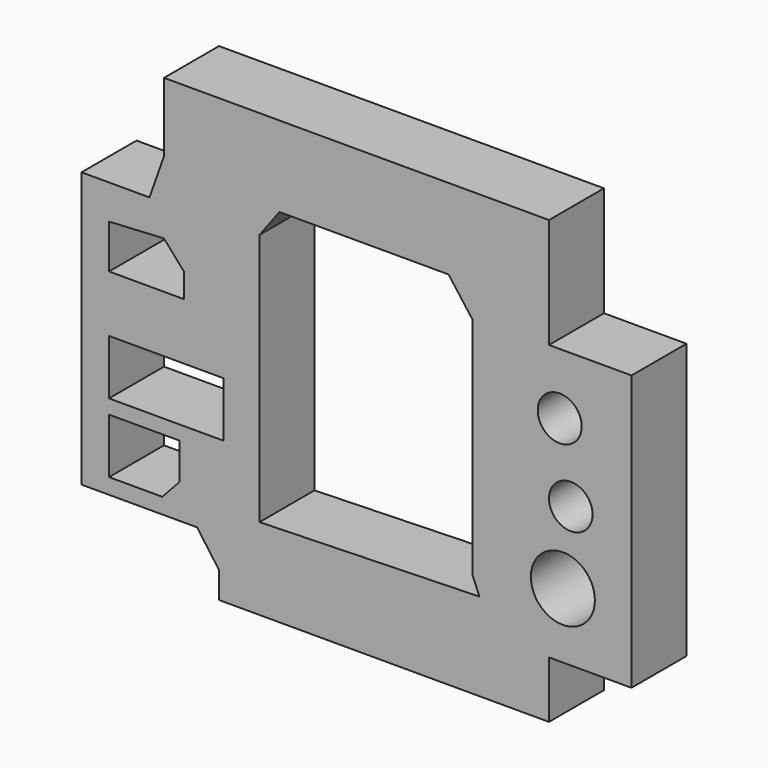
from build123d import *

# Parameters (mm, degrees)
F0_W     = 41.662812
F0_H     = 20
F0_R     = 11.641019
F0_R_2   = 7.924866
F0_R_3   = 7.996653
F1_DEPTH = 25
F2_DEPTH = 25


with BuildPart() as f1:
    # F0 (on Front) → F1 (new body)
    with BuildSketch(Plane.XZ):
        Polygon((-73.644338, 49.131665), (-98.355876, 49.131665), (-98.355876, -50.868335), (-56.336644, -50.868335), (-48.355876, -61.926026), (-48.355876, -71.541415), (71.644124, -71.541415), (71.644124, -50.868335), (101.644124, -50.868335), (101.644124, 49.131665), (71.644124, 49.131665), (71.644124, 89.131665), (-68.355876, 89.131665), (-68.355876, 64.035509), align=None)
        Polygon((-88.355876, -45.193389), (-88.355876, -25.193389), (-62.702298, -25.193389), (-62.702298, -38.416974), (-68.994693, -45.193389), align=None, mode=Mode.SUBTRACT)
        with Locations((-67.52447, -10)):
            Rectangle(F0_W, F0_H, mode=Mode.SUBTRACT)
        with Locations((76.690935, -27.195666)):
            Circle(F0_R, mode=Mode.SUBTRACT)
        with Locations((79.56899, 0)):
            Circle(F0_R_2, mode=Mode.SUBTRACT)
        Polygon((-88.355876, 20.634644), (-88.355876, 36.607623), (-68.38667, 37.717025), (-61.126228, 29.488518), (-61.126228, 20.634644), align=None, mode=Mode.SUBTRACT)
        Polygon((-33.624265, 50.160453), (-26.363822, 59.841048), (35.10794, 59.841048), (43.820471, 48.224337), (43.820471, -33.576678), (46.346532, -39.643808), (-33.624265, -41.805182), align=None, mode=Mode.SUBTRACT)
        with Locations((75.539708, 26.911816)):
            Circle(F0_R_3, mode=Mode.SUBTRACT)
    extrude(amount=F1_DEPTH)

    # F0 (on Front) → F2 (join)
    with BuildSketch(Plane.XZ):
        Polygon((-73.644338, 49.131665), (-98.355876, 49.131665), (-98.355876, -50.868335), (-56.336644, -50.868335), (-48.355876, -61.926026), (-48.355876, -71.541415), (71.644124, -71.541415), (71.644124, -50.868335), (101.644124, -50.868335), (101.644124, 49.131665), (71.644124, 49.131665), (71.644124, 89.131665), (-68.355876, 89.131665), (-68.355876, 64.035509), align=None)
        Polygon((-88.355876, -45.193389), (-88.355876, -25.193389), (-62.702298, -25.193389), (-62.702298, -38.416974), (-68.994693, -45.193389), align=None, mode=Mode.SUBTRACT)
        with Locations((-67.52447, -10)):
            Rectangle(F0_W, F0_H, mode=Mode.SUBTRACT)
        with Locations((76.690935, -27.195666)):
            Circle(F0_R, mode=Mode.SUBTRACT)
        with Locations((79.56899, 0)):
            Circle(F0_R_2, mode=Mode.SUBTRACT)
        Polygon((-88.355876, 20.634644), (-88.355876, 36.607623), (-68.38667, 37.717025), (-61.126228, 29.488518), (-61.126228, 20.634644), align=None, mode=Mode.SUBTRACT)
        Polygon((-33.624265, 50.160453), (-26.363822, 59.841048), (35.10794, 59.841048), (43.820471, 48.224337), (43.820471, -33.576678), (46.346532, -39.643808), (-33.624265, -41.805182), align=None, mode=Mode.SUBTRACT)
        with Locations((75.539708, 26.911816)):
            Circle(F0_R_3, mode=Mode.SUBTRACT)
    extrude(amount=F2_DEPTH)


solid = f1.part
